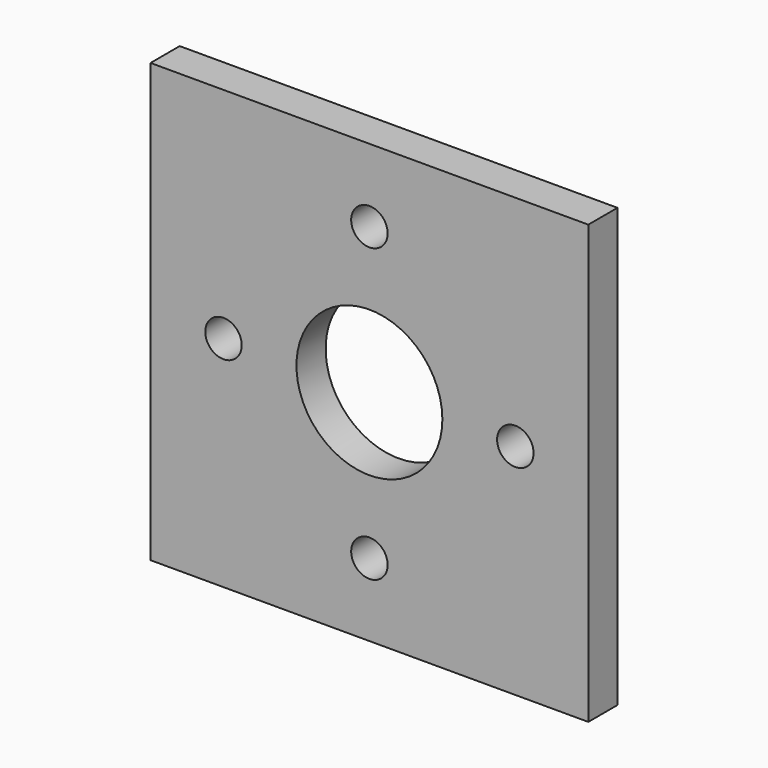
from build123d import *

# Parameters (mm, degrees)
F0_W     = 76.2
F0_H     = 76.2
F0_R     = 3.175
F0_R_2   = 12.7
F1_DEPTH = 6.35


with BuildPart() as f1:
    # F0 (on Front) → F1 (new body)
    with BuildSketch(Plane.XZ):
        Rectangle(F0_W, F0_H)
        with Locations((0, -25.4)):
            Circle(F0_R, mode=Mode.SUBTRACT)
        with Locations((-25.4, 0)):
            Circle(F0_R, mode=Mode.SUBTRACT)
        Circle(F0_R_2, mode=Mode.SUBTRACT)
        with Locations((25.4, 0)):
            Circle(F0_R, mode=Mode.SUBTRACT)
        with Locations((0, 25.4)):
            Circle(F0_R, mode=Mode.SUBTRACT)
    extrude(amount=F1_DEPTH)


solid = f1.part
